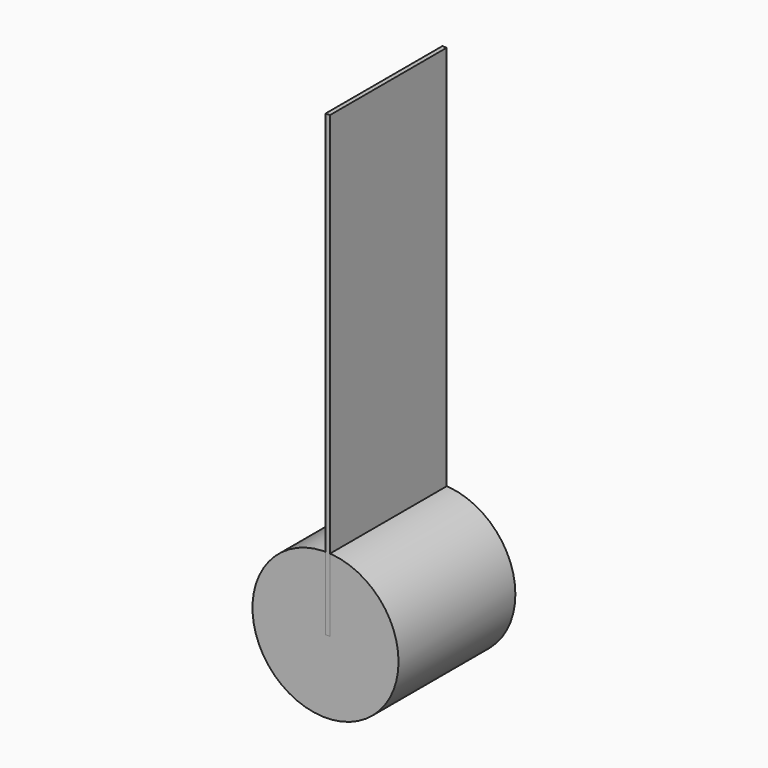
from build123d import *

# Parameters (mm, degrees)
F0_R     = 50
F2_DEPTH = 100
F1_W     = 100
F1_H     = 314.159
F3_DEPTH = 3
F4_R     = 6
F5_DEPTH = 3


with BuildPart() as f2:
    # F0 (on Front) → F2 (new body)
    with BuildSketch(Plane.XZ):
        Circle(F0_R)
    extrude(amount=-F2_DEPTH)


with BuildPart() as f3:
    # F1 (on Right) → F3 (new body)
    with BuildSketch(Plane.YZ):
        with Locations((50, 157.0795)):
            Rectangle(F1_W, F1_H)
    extrude(amount=F3_DEPTH)


with BuildPart() as f5:
    # F4 (on face) → F5 (new body)
    with BuildSketch(Plane.YZ):
        with Locations((85, 10)):
            Circle(F4_R)
        with Locations((15, 10)):
            Circle(F4_R)
    extrude(amount=F5_DEPTH)


solid = Compound([f2.part, f3.part, f5.part])
